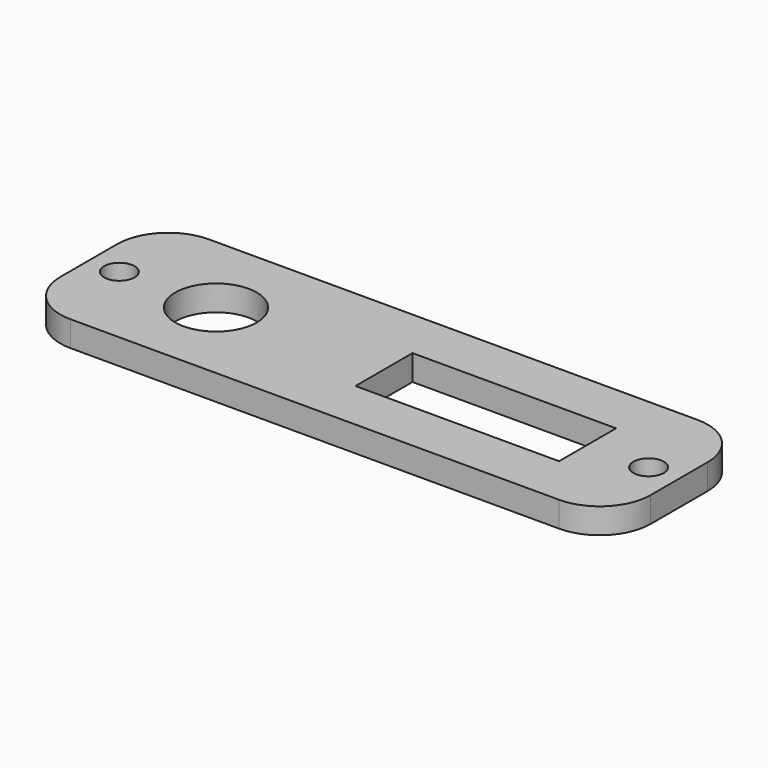
from build123d import *

# Parameters (mm, degrees)
F0_W     = 58
F0_H     = 17
F0_R     = 1.5
F0_R_2   = 4
F0_W_2   = 20
F0_H_2   = 7
F1_DEPTH = 2.5
F2_R     = 5


with BuildPart() as f1:
    # F0 (on Top) → F1 (new body)
    with BuildSketch(Plane.XY):
        with Locations((3.638044, -10.091476)):
            Rectangle(F0_W, F0_H)
        with Locations((-22.361956, -10.091476)):
            Circle(F0_R, mode=Mode.SUBTRACT)
        with Locations((-12.861956, -10.091476)):
            Circle(F0_R_2, mode=Mode.SUBTRACT)
        with Locations((13.638044, -10.091476)):
            Rectangle(F0_W_2, F0_H_2, mode=Mode.SUBTRACT)
        with Locations((29.638044, -10.091476)):
            Circle(F0_R, mode=Mode.SUBTRACT)
    extrude(amount=F1_DEPTH)

    # F2
    f2_edges = [f1.edges().sort_by_distance(p)[0] for p in [
        (-25.361956, -1.591476, 1.25),
        (32.638044, -1.591476, 1.25),
        (-25.361956, -18.591476, 1.25),
        (32.638044, -18.591476, 1.25),
    ]]
    fillet(f2_edges, radius=F2_R)


solid = f1.part
